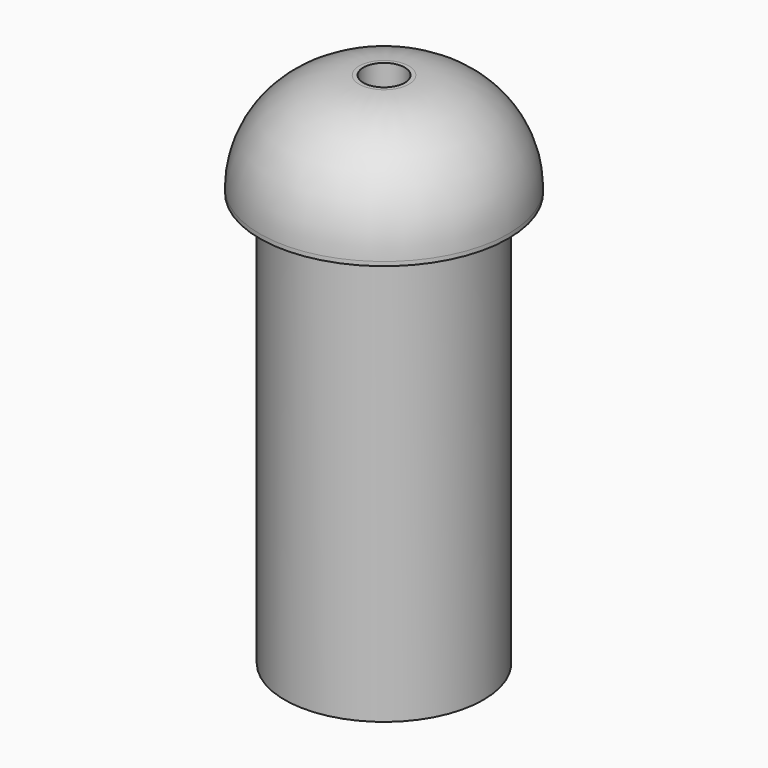
from build123d import *

# Parameters (mm, degrees)
SKETCH_R      = 4.8
SKETCH_R_2    = 3
PAD_DEPTH     = 20
SKETCH001_R   = 6
SKETCH001_R_2 = 1
PAD001_DEPTH  = 5
FILLET_R      = 4.8


with BuildPart() as part:
    # Sketch → Pad (new body)
    with BuildSketch(Plane.XY):
        Circle(SKETCH_R)
        Circle(SKETCH_R_2, mode=Mode.SUBTRACT)
    extrude(amount=PAD_DEPTH)

    # Sketch001 (on Face4 of Pad) → Pad001 (join)
    with BuildSketch(Plane.XY.offset(20)):
        Circle(SKETCH001_R)
        Circle(SKETCH001_R_2, mode=Mode.SUBTRACT)
    extrude(amount=PAD001_DEPTH)

    # Fillet
    fillet_edges = [part.edges().sort_by_distance(p)[0] for p in [
        (-6, 0, 25),
    ]]
    fillet(fillet_edges, radius=FILLET_R)


solid = part.part
